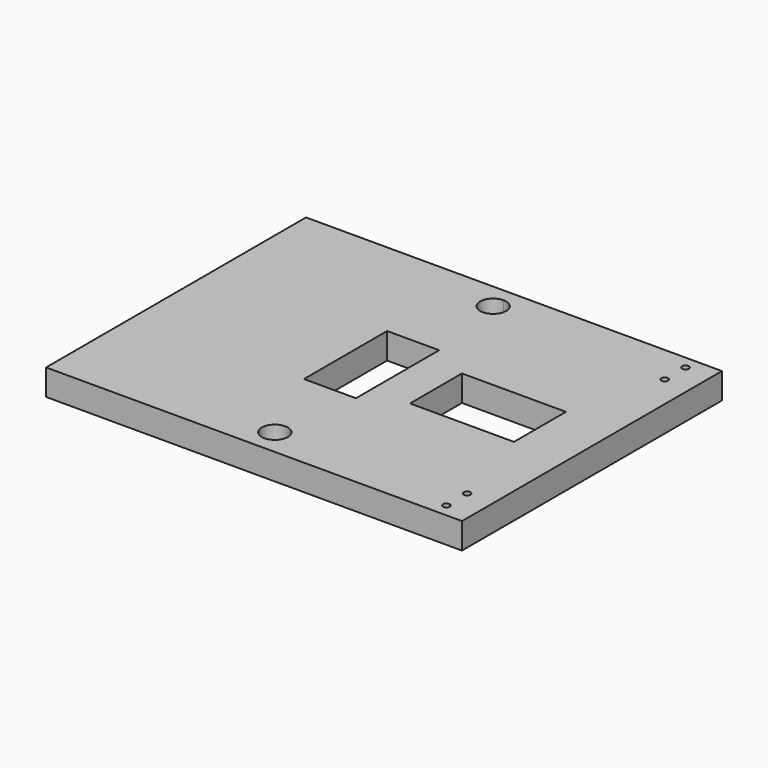
from build123d import *

# Parameters (mm, degrees)
F0_W     = 12.7
F0_H     = 15.875
F1_DEPTH = 6.35
F2_R     = 0.8255
F2_W     = 6.35
F2_H     = 12.7
F3_DEPTH = 25.4


with BuildPart() as f1:
    # F0 (on Top) → F1 (new body)
    with BuildSketch(Plane.XY):
        with BuildLine():
            Line((0, -12.7), (0, 0))
            Line((0, 0), (-6.35, 0))
            Line((-6.35, 0), (-6.35, -2.3495))
            ThreePointArc((-6.35, -2.3495), (-5.766283, -2.591283), (-5.5245, -3.175))
            ThreePointArc((-5.5245, -3.175), (-5.766283, -3.758717), (-6.35, -4.0005))
            Line((-6.35, -4.0005), (-6.35, -8.6995))
            ThreePointArc((-6.35, -8.6995), (-5.766283, -8.941283), (-5.5245, -9.525))
            ThreePointArc((-5.5245, -9.525), (-5.766283, -10.108717), (-6.35, -10.3505))
            Line((-6.35, -10.3505), (-6.35, -12.7))
            Line((-6.35, -12.7), (0, -12.7))
        make_face()
        with BuildLine():
            Line((-6.35, -2.3495), (-6.35, 0))
            Line((-6.35, 0), (-12.7, 0))
            Line((-12.7, 0), (-12.7, -12.7))
            Line((-12.7, -12.7), (-6.35, -12.7))
            Line((-6.35, -12.7), (-6.35, -10.3505))
            ThreePointArc((-6.35, -10.3505), (-7.1755, -9.525), (-6.35, -8.6995))
            Line((-6.35, -8.6995), (-6.35, -4.0005))
            ThreePointArc((-6.35, -4.0005), (-7.1755, -3.175), (-6.35, -2.3495))
        make_face()
        with BuildLine():
            ThreePointArc((-47.625, -6.35), (-48.554936, -4.104936), (-50.8, -3.175))
            ThreePointArc((-50.8, -3.175), (-53.045064, -8.595064), (-47.625, -6.35))
        make_face()
        with BuildLine():
            ThreePointArc((-47.625, -73.025), (-53.045064, -70.779936), (-50.8, -76.2))
            ThreePointArc((-50.8, -76.2), (-48.554936, -75.270064), (-47.625, -73.025))
        make_face()
        Polygon((0, -31.75), (0, -12.7), (-6.35, -12.7), (-12.7, -12.7), (-12.7, 0), (-50.8, 0), (-101.6, 0), (-101.6, -79.375), (-50.8, -79.375), (-12.7, -79.375), (-12.7, -66.675), (-6.35, -66.675), (0, -66.675), (0, -47.625), (-12.7, -47.625), (-38.1, -47.625), (-38.1, -31.75), (-12.7, -31.75), align=None)
        with BuildLine():
            ThreePointArc((-47.625, -73.025), (-48.554936, -75.270064), (-50.8, -76.2))
            ThreePointArc((-50.8, -76.2), (-53.045064, -70.779936), (-47.625, -73.025))
        make_face(mode=Mode.SUBTRACT)
        with BuildLine():
            ThreePointArc((-47.625, -6.35), (-53.045064, -8.595064), (-50.8, -3.175))
            ThreePointArc((-50.8, -3.175), (-48.554936, -4.104936), (-47.625, -6.35))
        make_face(mode=Mode.SUBTRACT)
        with Locations((-6.35, -39.6875)):
            Rectangle(F0_W, F0_H)
        with BuildLine():
            Line((0, -79.375), (0, -66.675))
            Line((0, -66.675), (-6.35, -66.675))
            Line((-6.35, -66.675), (-6.35, -69.0245))
            ThreePointArc((-6.35, -69.0245), (-5.766283, -69.266283), (-5.5245, -69.85))
            ThreePointArc((-5.5245, -69.85), (-5.766283, -70.433717), (-6.35, -70.6755))
            Line((-6.35, -70.6755), (-6.35, -75.3745))
            ThreePointArc((-6.35, -75.3745), (-5.766283, -75.616283), (-5.5245, -76.2))
            ThreePointArc((-5.5245, -76.2), (-5.766283, -76.783717), (-6.35, -77.0255))
            Line((-6.35, -77.0255), (-6.35, -79.375))
            Line((-6.35, -79.375), (0, -79.375))
        make_face()
        with BuildLine():
            Line((-6.35, -69.0245), (-6.35, -66.675))
            Line((-6.35, -66.675), (-12.7, -66.675))
            Line((-12.7, -66.675), (-12.7, -79.375))
            Line((-12.7, -79.375), (-6.35, -79.375))
            Line((-6.35, -79.375), (-6.35, -77.0255))
            ThreePointArc((-6.35, -77.0255), (-7.1755, -76.2), (-6.35, -75.3745))
            Line((-6.35, -75.3745), (-6.35, -70.6755))
            ThreePointArc((-6.35, -70.6755), (-7.1755, -69.85), (-6.35, -69.0245))
        make_face()
    extrude(amount=F1_DEPTH)

    # F2 (on face) → F3 (cut)
    with BuildSketch(Plane.XY.offset(6.35)):
        with Locations((-6.35, -3.175)):
            Circle(F2_R)
        with Locations((-6.35, -9.525)):
            Circle(F2_R)
        with Locations((-50.673, -33.3375)):
            Rectangle(F2_W, F2_H)
        Polygon((-53.848, -39.6875), (-53.848, -26.9875), (-60.198, -26.9875), (-60.198, -52.3875), (-47.498, -52.3875), (-47.498, -39.6875), align=None)
    extrude(amount=-F3_DEPTH, mode=Mode.SUBTRACT)


solid = f1.part
